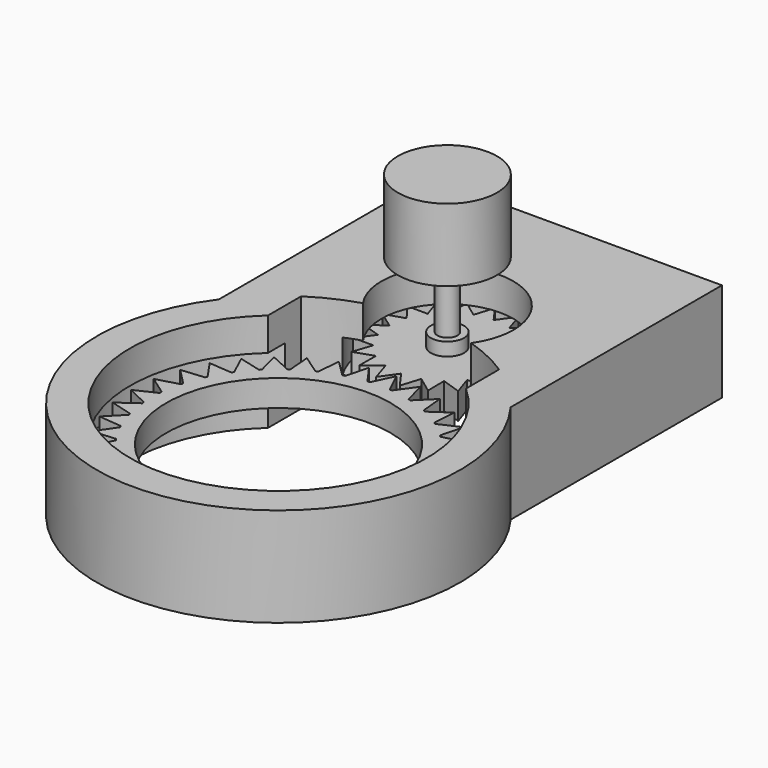
from build123d import *

# Parameters (mm, degrees)
F2_DEPTH  = 19.05
F0_W      = 6.35
F0_H      = 12.7
F4_R      = 43.18
F5_DEPTH  = 5.08
F7_DEPTH  = 5.08
F11_W     = 6.35
F11_H     = 12.7
F12_ANGLE = 220


with BuildPart() as f2:
    # F1 (on Top) → F2 (new body, symmetric)
    with BuildSketch(Plane.XY):
        with BuildLine():
            Line((-38.1, 42.5970949714), (-38.1, 58.5441073038))
            ThreePointArc((-38.1, 58.5441073038), (-47.8864663135, 50.8518322581), (-56.1521736461, 41.5446253421))
            ThreePointArc((-56.1521736461, 41.5446253421), (-0.0121527044, -69.8499989428), (56.1666263539, 41.5250837931))
            ThreePointArc((56.1666263539, 41.5250837931), (47.8953129372, 50.8435000629), (38.1, 58.5441073038))
            Line((38.1, 58.5441073038), (38.1, 42.5970949714))
            ThreePointArc((38.1, 42.5970949714), (0, -57.15), (-38.1, 42.5970949714))
        make_face()
        with BuildLine():
            ThreePointArc((-56.1521736461, 41.5446253421), (-47.8864663135, 50.8518322581), (-38.1, 58.5441073038))
            ThreePointArc((-38.1, 58.5441073038), (-29.7240525397, 63.2099928858), (-20.7880661565, 66.684921875))
            ThreePointArc((-20.7880661565, 66.684921875), (0, 106.68), (20.7880661565, 66.684921875))
            ThreePointArc((20.7880661565, 66.684921875), (29.7240525397, 63.2099928858), (38.1, 58.5441073038))
            ThreePointArc((38.1, 58.5441073038), (47.8953129372, 50.8435000629), (56.1666263539, 41.5250837931))
            Line((56.1666263539, 41.5250837931), (56.1666263539, 143.1446253421))
            Line((56.1666263539, 143.1446253421), (-56.1521736461, 143.1446253421))
            Line((-56.1521736461, 143.1446253421), (-56.1521736461, 82.5540921448))
            Line((-56.1521736461, 82.5540921448), (-56.1521736461, 80.0059078552))
            Line((-56.1521736461, 80.0059078552), (-56.1521736461, 41.5446253421))
        make_face()
        with BuildLine():
            ThreePointArc((-56.1521736461, 82.5540921448), (-56.1666263539, 81.28), (-56.1521736461, 80.0059078552))
            Line((-56.1521736461, 80.0059078552), (-56.1521736461, 82.5540921448))
        make_face()
    extrude(amount=F2_DEPTH, both=True)

    # F0 (on Front) → F3 (revolve, cut)
    with BuildSketch(Plane.XZ):
        with Locations((60.325, 0)):
            Rectangle(F0_W, F0_H)
    revolve(axis=Axis((0, 0, -13.0382813513), (0, 0, -1)), mode=Mode.SUBTRACT)

    # F11 (on offset) → F12 (revolve, cut)
    with BuildSketch(Plane.XZ.offset(-81.28)):
        with Locations((28.575, 0)):
            Rectangle(F11_W, F11_H)
    revolve(axis=Axis((0, 81.28, 35.56), (0, 0, 1)), revolution_arc=F12_ANGLE, mode=Mode.SUBTRACT)


with BuildPart() as f5:
    # F4 (on Top) → F5 (new body, symmetric)
    with BuildSketch(Plane.XY):
        with BuildLine():
            ThreePointArc((48.7456126291, -3.8191981379), (48.8576388833, -1.9110593268), (48.895, 0))
            ThreePointArc((48.895, 0), (48.8576388833, 1.9110593268), (48.7456126291, 3.8191981379))
            ThreePointArc((48.7456126291, 3.8191981379), (48.7089397632, 4.2614800416), (48.6682540392, 4.7034108658))
            ThreePointArc((48.6682540392, 4.7034108658), (48.1521750835, 8.490527647), (47.3418604457, 12.2257627388))
            ThreePointArc((47.3418604457, 12.2257627388), (47.2289432764, 12.6549572103), (47.1121351777, 13.0831091104))
            ThreePointArc((47.1121351777, 13.0831091104), (45.9462706933, 16.7230749079), (44.4996497887, 20.2608537254))
            ThreePointArc((44.4996497887, 20.2608537254), (44.3139192472, 20.6639199078), (44.1245379287, 21.0652837051))
            ThreePointArc((44.1245379287, 21.0652837051), (42.344312118, 24.4475), (40.3053397909, 27.680328924))
            ThreePointArc((40.3053397909, 27.680328924), (40.0524392055, 28.0450198554), (39.7962389229, 28.4074003139))
            ThreePointArc((39.7962389229, 28.4074003139), (37.4557430463, 31.4291001756), (34.886372439, 34.2587513352))
            ThreePointArc((34.886372439, 34.2587513352), (34.5739860661, 34.5739860661), (34.2587513352, 34.886372439))
            ThreePointArc((34.2587513352, 34.886372439), (31.4291001756, 37.4557430463), (28.4074003139, 39.7962389229))
            ThreePointArc((28.4074003139, 39.7962389229), (28.0450198554, 40.0524392055), (27.680328924, 40.3053397909))
            ThreePointArc((27.680328924, 40.3053397909), (24.4475, 42.344312118), (21.0652837051, 44.1245379287))
            ThreePointArc((21.0652837051, 44.1245379287), (20.6639199078, 44.3139192472), (20.2608537254, 44.4996497887))
            ThreePointArc((20.2608537254, 44.4996497887), (16.7230749079, 45.9462706933), (13.0831091104, 47.1121351777))
            ThreePointArc((13.0831091104, 47.1121351777), (12.6549572103, 47.2289432764), (12.2257627388, 47.3418604457))
            ThreePointArc((12.2257627388, 47.3418604457), (8.490527647, 48.1521750835), (4.7034108658, 48.6682540392))
            ThreePointArc((4.7034108658, 48.6682540392), (4.2614800416, 48.7089397632), (3.8191981379, 48.7456126291))
            ThreePointArc((3.8191981379, 48.7456126291), (0, 48.895), (-3.8191981379, 48.7456126291))
            ThreePointArc((-3.8191981379, 48.7456126291), (-4.2614800416, 48.7089397632), (-4.7034108658, 48.6682540392))
            ThreePointArc((-4.7034108658, 48.6682540392), (-8.490527647, 48.1521750835), (-12.2257627388, 47.3418604457))
            ThreePointArc((-12.2257627388, 47.3418604457), (-12.6549572103, 47.2289432764), (-13.0831091104, 47.1121351777))
            ThreePointArc((-13.0831091104, 47.1121351777), (-16.7230749079, 45.9462706933), (-20.2608537254, 44.4996497887))
            ThreePointArc((-20.2608537254, 44.4996497887), (-20.6639199078, 44.3139192472), (-21.0652837051, 44.1245379287))
            ThreePointArc((-21.0652837051, 44.1245379287), (-24.4475, 42.344312118), (-27.680328924, 40.3053397909))
            ThreePointArc((-27.680328924, 40.3053397909), (-28.0450198554, 40.0524392055), (-28.4074003139, 39.7962389229))
            ThreePointArc((-28.4074003139, 39.7962389229), (-31.4291001756, 37.4557430463), (-34.2587513352, 34.886372439))
            ThreePointArc((-34.2587513352, 34.886372439), (-34.5739860661, 34.5739860661), (-34.886372439, 34.2587513352))
            ThreePointArc((-34.886372439, 34.2587513352), (-37.4557430463, 31.4291001756), (-39.7962389229, 28.4074003139))
            ThreePointArc((-39.7962389229, 28.4074003139), (-40.0524392055, 28.0450198554), (-40.3053397909, 27.680328924))
            ThreePointArc((-40.3053397909, 27.680328924), (-42.344312118, 24.4475), (-44.1245379287, 21.0652837051))
            ThreePointArc((-44.1245379287, 21.0652837051), (-44.3139192472, 20.6639199078), (-44.4996497887, 20.2608537254))
            ThreePointArc((-44.4996497887, 20.2608537254), (-45.9462706933, 16.7230749079), (-47.1121351777, 13.0831091104))
            ThreePointArc((-47.1121351777, 13.0831091104), (-47.2289432764, 12.6549572103), (-47.3418604457, 12.2257627388))
            ThreePointArc((-47.3418604457, 12.2257627388), (-48.1521750835, 8.490527647), (-48.6682540392, 4.7034108658))
            ThreePointArc((-48.6682540392, 4.7034108658), (-48.7089397632, 4.2614800416), (-48.7456126291, 3.8191981379))
            ThreePointArc((-48.7456126291, 3.8191981379), (-48.895, 0), (-48.7456126291, -3.8191981379))
            ThreePointArc((-48.7456126291, -3.8191981379), (-48.7089397632, -4.2614800416), (-48.6682540392, -4.7034108658))
            ThreePointArc((-48.6682540392, -4.7034108658), (-48.1521750835, -8.490527647), (-47.3418604457, -12.2257627388))
            ThreePointArc((-47.3418604457, -12.2257627388), (-47.2289432764, -12.6549572103), (-47.1121351777, -13.0831091104))
            ThreePointArc((-47.1121351777, -13.0831091104), (-45.9462706933, -16.7230749079), (-44.4996497887, -20.2608537254))
            ThreePointArc((-44.4996497887, -20.2608537254), (-44.3139192472, -20.6639199078), (-44.1245379287, -21.0652837051))
            ThreePointArc((-44.1245379287, -21.0652837051), (-42.344312118, -24.4475), (-40.3053397909, -27.680328924))
            ThreePointArc((-40.3053397909, -27.680328924), (-40.0524392055, -28.0450198554), (-39.7962389229, -28.4074003139))
            ThreePointArc((-39.7962389229, -28.4074003139), (-37.4557430463, -31.4291001756), (-34.886372439, -34.2587513352))
            ThreePointArc((-34.886372439, -34.2587513352), (-34.5739860661, -34.5739860661), (-34.2587513352, -34.886372439))
            ThreePointArc((-34.2587513352, -34.886372439), (-31.4291001756, -37.4557430463), (-28.4074003139, -39.7962389229))
            ThreePointArc((-28.4074003139, -39.7962389229), (-28.0450198554, -40.0524392055), (-27.680328924, -40.3053397909))
            ThreePointArc((-27.680328924, -40.3053397909), (-24.4475, -42.344312118), (-21.0652837051, -44.1245379287))
            ThreePointArc((-21.0652837051, -44.1245379287), (-20.6639199078, -44.3139192472), (-20.2608537254, -44.4996497887))
            ThreePointArc((-20.2608537254, -44.4996497887), (-16.7230749079, -45.9462706933), (-13.0831091104, -47.1121351777))
            ThreePointArc((-13.0831091104, -47.1121351777), (-12.6549572103, -47.2289432764), (-12.2257627388, -47.3418604457))
            ThreePointArc((-12.2257627388, -47.3418604457), (-8.490527647, -48.1521750835), (-4.7034108658, -48.6682540392))
            ThreePointArc((-4.7034108658, -48.6682540392), (-4.2614800416, -48.7089397632), (-3.8191981379, -48.7456126291))
            ThreePointArc((-3.8191981379, -48.7456126291), (0, -48.895), (3.8191981379, -48.7456126291))
            ThreePointArc((3.8191981379, -48.7456126291), (4.2614800416, -48.7089397632), (4.7034108658, -48.6682540392))
            ThreePointArc((4.7034108658, -48.6682540392), (8.490527647, -48.1521750835), (12.2257627388, -47.3418604457))
            ThreePointArc((12.2257627388, -47.3418604457), (12.6549572103, -47.2289432764), (13.0831091104, -47.1121351777))
            ThreePointArc((13.0831091104, -47.1121351777), (16.7230749079, -45.9462706933), (20.2608537254, -44.4996497887))
            ThreePointArc((20.2608537254, -44.4996497887), (20.6639199078, -44.3139192472), (21.0652837051, -44.1245379287))
            ThreePointArc((21.0652837051, -44.1245379287), (24.4475, -42.344312118), (27.680328924, -40.3053397909))
            ThreePointArc((27.680328924, -40.3053397909), (28.0450198554, -40.0524392055), (28.4074003139, -39.7962389229))
            ThreePointArc((28.4074003139, -39.7962389229), (31.4291001756, -37.4557430463), (34.2587513352, -34.886372439))
            ThreePointArc((34.2587513352, -34.886372439), (34.5739860661, -34.5739860661), (34.886372439, -34.2587513352))
            ThreePointArc((34.886372439, -34.2587513352), (37.4557430463, -31.4291001756), (39.7962389229, -28.4074003139))
            ThreePointArc((39.7962389229, -28.4074003139), (40.0524392055, -28.0450198554), (40.3053397909, -27.680328924))
            ThreePointArc((40.3053397909, -27.680328924), (42.344312118, -24.4475), (44.1245379287, -21.0652837051))
            ThreePointArc((44.1245379287, -21.0652837051), (44.3139192472, -20.6639199078), (44.4996497887, -20.2608537254))
            ThreePointArc((44.4996497887, -20.2608537254), (45.9462706933, -16.7230749079), (47.1121351777, -13.0831091104))
            ThreePointArc((47.1121351777, -13.0831091104), (47.2289432764, -12.6549572103), (47.3418604457, -12.2257627388))
            ThreePointArc((47.3418604457, -12.2257627388), (48.1521750835, -8.490527647), (48.6682540392, -4.7034108658))
            ThreePointArc((48.6682540392, -4.7034108658), (48.7089397632, -4.2614800416), (48.7456126291, -3.8191981379))
        make_face()
        Circle(F4_R, mode=Mode.SUBTRACT)
        with BuildLine():
            ThreePointArc((48.7456126291, 3.8191981379), (48.8576388833, 1.9110593268), (48.895, 0))
            ThreePointArc((48.895, 0), (48.8576388833, -1.9110593268), (48.7456126291, -3.8191981379))
            Line((48.7456126291, -3.8191981379), (56.7734283708, 0))
            Line((56.7734283708, 0), (48.7456126291, 3.8191981379))
        make_face()
        with BuildLine():
            ThreePointArc((47.3418604457, 12.2257627388), (48.1521750835, 8.490527647), (48.6682540392, 4.7034108658))
            Line((48.6682540392, 4.7034108658), (55.9109124247, 9.8586023765))
            Line((55.9109124247, 9.8586023765), (47.3418604457, 12.2257627388))
        make_face()
        with BuildLine():
            Line((55.9109124247, -9.8586023765), (48.6682540392, -4.7034108658))
            ThreePointArc((48.6682540392, -4.7034108658), (48.1521750835, -8.490527647), (47.3418604457, -12.2257627388))
            Line((47.3418604457, -12.2257627388), (55.9109124247, -9.8586023765))
        make_face()
        with BuildLine():
            ThreePointArc((44.4996497887, 20.2608537254), (45.9462706933, 16.7230749079), (47.1121351777, 13.0831091104))
            Line((47.1121351777, 13.0831091104), (53.3495716968, 19.4176561085))
            Line((53.3495716968, 19.4176561085), (44.4996497887, 20.2608537254))
        make_face()
        with BuildLine():
            Line((53.3495716968, -19.4176561085), (47.1121351777, -13.0831091104))
            ThreePointArc((47.1121351777, -13.0831091104), (45.9462706933, -16.7230749079), (44.4996497887, -20.2608537254))
            Line((44.4996497887, -20.2608537254), (53.3495716968, -19.4176561085))
        make_face()
        with BuildLine():
            ThreePointArc((40.3053397909, 27.680328924), (42.344312118, 24.4475), (44.1245379287, 21.0652837051))
            Line((44.1245379287, 21.0652837051), (49.1672312291, 28.3867141854))
            Line((49.1672312291, 28.3867141854), (40.3053397909, 27.680328924))
        make_face()
        with BuildLine():
            Line((49.1672312291, -28.3867141854), (44.1245379287, -21.0652837051))
            ThreePointArc((44.1245379287, -21.0652837051), (42.344312118, -24.4475), (40.3053397909, -27.680328924))
            Line((40.3053397909, -27.680328924), (49.1672312291, -28.3867141854))
        make_face()
        with BuildLine():
            ThreePointArc((34.886372439, 34.2587513352), (37.4557430463, 31.4291001756), (39.7962389229, 28.4074003139))
            Line((39.7962389229, 28.4074003139), (43.4909693203, 36.4932563162))
            Line((43.4909693203, 36.4932563162), (34.886372439, 34.2587513352))
        make_face()
        with BuildLine():
            Line((43.4909693203, -36.4932563162), (39.7962389229, -28.4074003139))
            ThreePointArc((39.7962389229, -28.4074003139), (37.4557430463, -31.4291001756), (34.886372439, -34.2587513352))
            Line((34.886372439, -34.2587513352), (43.4909693203, -36.4932563162))
        make_face()
        with BuildLine():
            ThreePointArc((28.4074003139, 39.7962389229), (31.4291001756, 37.4557430463), (34.2587513352, 34.886372439))
            Line((34.2587513352, 34.886372439), (36.4932563162, 43.4909693203))
            Line((36.4932563162, 43.4909693203), (28.4074003139, 39.7962389229))
        make_face()
        with BuildLine():
            Line((36.4932563162, -43.4909693203), (34.2587513352, -34.886372439))
            ThreePointArc((34.2587513352, -34.886372439), (31.4291001756, -37.4557430463), (28.4074003139, -39.7962389229))
            Line((28.4074003139, -39.7962389229), (36.4932563162, -43.4909693203))
        make_face()
        with BuildLine():
            ThreePointArc((21.0652837051, 44.1245379287), (24.4475, 42.344312118), (27.680328924, 40.3053397909))
            Line((27.680328924, 40.3053397909), (28.3867141854, 49.1672312291))
            Line((28.3867141854, 49.1672312291), (21.0652837051, 44.1245379287))
        make_face()
        with BuildLine():
            Line((28.3867141854, -49.1672312291), (27.680328924, -40.3053397909))
            ThreePointArc((27.680328924, -40.3053397909), (24.4475, -42.344312118), (21.0652837051, -44.1245379287))
            Line((21.0652837051, -44.1245379287), (28.3867141854, -49.1672312291))
        make_face()
        with BuildLine():
            ThreePointArc((13.0831091104, 47.1121351777), (16.7230749079, 45.9462706933), (20.2608537254, 44.4996497887))
            Line((20.2608537254, 44.4996497887), (19.4176561085, 53.3495716968))
            Line((19.4176561085, 53.3495716968), (13.0831091104, 47.1121351777))
        make_face()
        with BuildLine():
            Line((19.4176561085, -53.3495716968), (20.2608537254, -44.4996497887))
            ThreePointArc((20.2608537254, -44.4996497887), (16.7230749079, -45.9462706933), (13.0831091104, -47.1121351777))
            Line((13.0831091104, -47.1121351777), (19.4176561085, -53.3495716968))
        make_face()
        with BuildLine():
            ThreePointArc((4.7034108658, 48.6682540392), (8.490527647, 48.1521750835), (12.2257627388, 47.3418604457))
            Line((12.2257627388, 47.3418604457), (9.8586023765, 55.9109124247))
            Line((9.8586023765, 55.9109124247), (4.7034108658, 48.6682540392))
        make_face()
        with BuildLine():
            Line((9.8586023765, -55.9109124247), (12.2257627388, -47.3418604457))
            ThreePointArc((12.2257627388, -47.3418604457), (8.490527647, -48.1521750835), (4.7034108658, -48.6682540392))
            Line((4.7034108658, -48.6682540392), (9.8586023765, -55.9109124247))
        make_face()
        with BuildLine():
            ThreePointArc((-3.8191981379, 48.7456126291), (0, 48.895), (3.8191981379, 48.7456126291))
            Line((3.8191981379, 48.7456126291), (0, 56.7734283708))
            Line((0, 56.7734283708), (-3.8191981379, 48.7456126291))
        make_face()
        with BuildLine():
            Line((0, -56.7734283708), (3.8191981379, -48.7456126291))
            ThreePointArc((3.8191981379, -48.7456126291), (0, -48.895), (-3.8191981379, -48.7456126291))
            Line((-3.8191981379, -48.7456126291), (0, -56.7734283708))
        make_face()
        with BuildLine():
            ThreePointArc((-12.2257627388, 47.3418604457), (-8.490527647, 48.1521750835), (-4.7034108658, 48.6682540392))
            Line((-4.7034108658, 48.6682540392), (-9.8586023765, 55.9109124247))
            Line((-9.8586023765, 55.9109124247), (-12.2257627388, 47.3418604457))
        make_face()
        with BuildLine():
            Line((-9.8586023765, -55.9109124247), (-4.7034108658, -48.6682540392))
            ThreePointArc((-4.7034108658, -48.6682540392), (-8.490527647, -48.1521750835), (-12.2257627388, -47.3418604457))
            Line((-12.2257627388, -47.3418604457), (-9.8586023765, -55.9109124247))
        make_face()
        with BuildLine():
            ThreePointArc((-20.2608537254, 44.4996497887), (-16.7230749079, 45.9462706933), (-13.0831091104, 47.1121351777))
            Line((-13.0831091104, 47.1121351777), (-19.4176561085, 53.3495716968))
            Line((-19.4176561085, 53.3495716968), (-20.2608537254, 44.4996497887))
        make_face()
        with BuildLine():
            Line((-19.4176561085, -53.3495716968), (-13.0831091104, -47.1121351777))
            ThreePointArc((-13.0831091104, -47.1121351777), (-16.7230749079, -45.9462706933), (-20.2608537254, -44.4996497887))
            Line((-20.2608537254, -44.4996497887), (-19.4176561085, -53.3495716968))
        make_face()
        with BuildLine():
            ThreePointArc((-27.680328924, 40.3053397909), (-24.4475, 42.344312118), (-21.0652837051, 44.1245379287))
            Line((-21.0652837051, 44.1245379287), (-28.3867141854, 49.1672312291))
            Line((-28.3867141854, 49.1672312291), (-27.680328924, 40.3053397909))
        make_face()
        with BuildLine():
            Line((-28.3867141854, -49.1672312291), (-21.0652837051, -44.1245379287))
            ThreePointArc((-21.0652837051, -44.1245379287), (-24.4475, -42.344312118), (-27.680328924, -40.3053397909))
            Line((-27.680328924, -40.3053397909), (-28.3867141854, -49.1672312291))
        make_face()
        with BuildLine():
            ThreePointArc((-34.2587513352, 34.886372439), (-31.4291001756, 37.4557430463), (-28.4074003139, 39.7962389229))
            Line((-28.4074003139, 39.7962389229), (-36.4932563162, 43.4909693203))
            Line((-36.4932563162, 43.4909693203), (-34.2587513352, 34.886372439))
        make_face()
        with BuildLine():
            Line((-36.4932563162, -43.4909693203), (-28.4074003139, -39.7962389229))
            ThreePointArc((-28.4074003139, -39.7962389229), (-31.4291001756, -37.4557430463), (-34.2587513352, -34.886372439))
            Line((-34.2587513352, -34.886372439), (-36.4932563162, -43.4909693203))
        make_face()
        with BuildLine():
            ThreePointArc((-39.7962389229, 28.4074003139), (-37.4557430463, 31.4291001756), (-34.886372439, 34.2587513352))
            Line((-34.886372439, 34.2587513352), (-43.4909693203, 36.4932563162))
            Line((-43.4909693203, 36.4932563162), (-39.7962389229, 28.4074003139))
        make_face()
        with BuildLine():
            Line((-43.4909693203, -36.4932563162), (-34.886372439, -34.2587513352))
            ThreePointArc((-34.886372439, -34.2587513352), (-37.4557430463, -31.4291001756), (-39.7962389229, -28.4074003139))
            Line((-39.7962389229, -28.4074003139), (-43.4909693203, -36.4932563162))
        make_face()
        with BuildLine():
            ThreePointArc((-44.1245379287, 21.0652837051), (-42.344312118, 24.4475), (-40.3053397909, 27.680328924))
            Line((-40.3053397909, 27.680328924), (-49.1672312291, 28.3867141854))
            Line((-49.1672312291, 28.3867141854), (-44.1245379287, 21.0652837051))
        make_face()
        with BuildLine():
            Line((-49.1672312291, -28.3867141854), (-40.3053397909, -27.680328924))
            ThreePointArc((-40.3053397909, -27.680328924), (-42.344312118, -24.4475), (-44.1245379287, -21.0652837051))
            Line((-44.1245379287, -21.0652837051), (-49.1672312291, -28.3867141854))
        make_face()
        with BuildLine():
            ThreePointArc((-47.1121351777, 13.0831091104), (-45.9462706933, 16.7230749079), (-44.4996497887, 20.2608537254))
            Line((-44.4996497887, 20.2608537254), (-53.3495716968, 19.4176561085))
            Line((-53.3495716968, 19.4176561085), (-47.1121351777, 13.0831091104))
        make_face()
        with BuildLine():
            Line((-53.3495716968, -19.4176561085), (-44.4996497887, -20.2608537254))
            ThreePointArc((-44.4996497887, -20.2608537254), (-45.9462706933, -16.7230749079), (-47.1121351777, -13.0831091104))
            Line((-47.1121351777, -13.0831091104), (-53.3495716968, -19.4176561085))
        make_face()
        with BuildLine():
            ThreePointArc((-48.6682540392, 4.7034108658), (-48.1521750835, 8.490527647), (-47.3418604457, 12.2257627388))
            Line((-47.3418604457, 12.2257627388), (-55.9109124247, 9.8586023765))
            Line((-55.9109124247, 9.8586023765), (-48.6682540392, 4.7034108658))
        make_face()
        with BuildLine():
            Line((-55.9109124247, -9.8586023765), (-47.3418604457, -12.2257627388))
            ThreePointArc((-47.3418604457, -12.2257627388), (-48.1521750835, -8.490527647), (-48.6682540392, -4.7034108658))
            Line((-48.6682540392, -4.7034108658), (-55.9109124247, -9.8586023765))
        make_face()
        with BuildLine():
            ThreePointArc((-48.7456126291, -3.8191981379), (-48.895, 0), (-48.7456126291, 3.8191981379))
            Line((-48.7456126291, 3.8191981379), (-56.7734283708, 0))
            Line((-56.7734283708, 0), (-48.7456126291, -3.8191981379))
        make_face()
    extrude(amount=F5_DEPTH, both=True)


with BuildPart() as f7:
    # F6 (on Top) → F7 (new body, symmetric)
    with BuildSketch(Plane.XY):
        with BuildLine():
            Line((22.2700384266, 81.3121766297), (22.225, 81.28))
            ThreePointArc((22.225, 81.28), (21.9563738062, 77.8349638202), (21.1569888162, 74.4732056567))
            Line((21.1569888162, 74.4732056567), (21.1900082892, 74.4287814541))
            Line((21.1900082892, 74.4287814541), (28.6450190251, 76.7854906705))
            Line((28.6450190251, 76.7854906705), (22.2700384266, 81.3121766297))
        make_face()
        with BuildLine():
            ThreePointArc((22.2249072081, 81.3442229787), (22.224976802, 81.3121115229), (22.225, 81.28))
            Line((22.225, 81.28), (22.2700384266, 81.3121766297))
            Line((22.2700384266, 81.3121766297), (22.2249072081, 81.3442229787))
        make_face()
        with BuildLine():
            ThreePointArc((21.1372310747, 88.1479027), (21.9463271084, 84.7884685333), (22.2249072081, 81.3442229787))
            Line((22.2249072081, 81.3442229787), (22.2700384266, 81.3121766297))
            Line((22.2700384266, 81.3121766297), (28.6319117674, 85.8572652976))
            Line((28.6319117674, 85.8572652976), (21.1701220384, 88.1924221325))
            Line((21.1701220384, 88.1924221325), (21.1372310747, 88.1479027))
        make_face()
        with BuildLine():
            Line((21.1900082892, 74.4287814541), (21.1569888162, 74.4732056567))
            ThreePointArc((21.1569888162, 74.4732056567), (21.1471320183, 74.4426443417), (21.1372310747, 74.4120973))
            Line((21.1372310747, 74.4120973), (21.1900082892, 74.4287814541))
        make_face()
        with BuildLine():
            ThreePointArc((21.1172968325, 88.2089537081), (21.1272860058, 88.1784354045), (21.1372310747, 88.1479027))
            Line((21.1372310747, 88.1479027), (21.1701220384, 88.1924221325))
            Line((21.1701220384, 88.1924221325), (21.1172968325, 88.2089537081))
        make_face()
        with BuildLine():
            Line((21.1900082892, 74.4287814541), (21.1372310747, 74.4120973))
            ThreePointArc((21.1372310747, 74.4120973), (19.8171776568, 71.2186832513), (18.0180769495, 68.2684847907))
            Line((18.0180769495, 68.2684847907), (18.0357525009, 68.2160312851))
            Line((18.0357525009, 68.2160312851), (25.854152239, 68.1536699317))
            Line((25.854152239, 68.1536699317), (21.1900082892, 74.4287814541))
        make_face()
        with BuildLine():
            ThreePointArc((17.9804027, 94.3435272322), (19.7880210042, 91.3985399014), (21.1172968325, 88.2089537081))
            Line((21.1172968325, 88.2089537081), (21.1701220384, 88.1924221325))
            Line((21.1701220384, 88.1924221325), (25.8161134956, 94.4809853057))
            Line((25.8161134956, 94.4809853057), (17.9979266041, 94.3960315954))
            Line((17.9979266041, 94.3960315954), (17.9804027, 94.3435272322))
        make_face()
        with BuildLine():
            Line((18.0357525009, 68.2160312851), (18.0180769495, 68.2684847907))
            ThreePointArc((18.0180769495, 68.2684847907), (17.999258612, 68.2424651709), (17.9804027, 68.2164727678))
            Line((17.9804027, 68.2164727678), (18.0357525009, 68.2160312851))
        make_face()
        with BuildLine():
            ThreePointArc((17.94257831, 94.3954301717), (17.9615092529, 94.3694923645), (17.9804027, 94.3435272322))
            Line((17.9804027, 94.3435272322), (17.9979266041, 94.3960315954))
            Line((17.9979266041, 94.3960315954), (17.94257831, 94.3954301717))
        make_face()
        with BuildLine():
            Line((18.0357525009, 68.2160312851), (17.9804027, 68.2164727678))
            ThreePointArc((17.9804027, 68.2164727678), (15.738138084, 65.5872744672), (13.1154301717, 63.33742169))
            Line((13.1154301717, 63.33742169), (13.1160315954, 63.2820733959))
            Line((13.1160315954, 63.2820733959), (20.5325008954, 60.8067458365))
            Line((20.5325008954, 60.8067458365), (18.0357525009, 68.2160312851))
        make_face()
        with BuildLine():
            ThreePointArc((13.0635272322, 99.2604027), (15.6927255328, 97.018138084), (17.94257831, 94.3954301717))
            Line((17.94257831, 94.3954301717), (17.9979266041, 94.3960315954))
            Line((17.9979266041, 94.3960315954), (20.4732541635, 101.8125008954))
            Line((20.4732541635, 101.8125008954), (13.0639687149, 99.3157525009))
            Line((13.0639687149, 99.3157525009), (13.0635272322, 99.2604027))
        make_face()
        with BuildLine():
            Line((13.1160315954, 63.2820733959), (13.1154301717, 63.33742169))
            ThreePointArc((13.1154301717, 63.33742169), (13.0894923645, 63.3184907471), (13.0635272322, 63.2995973))
            Line((13.0635272322, 63.2995973), (13.1160315954, 63.2820733959))
        make_face()
        with BuildLine():
            ThreePointArc((13.0115152093, 99.2980769495), (13.0375348291, 99.279258612), (13.0635272322, 99.2604027))
            Line((13.0635272322, 99.2604027), (13.0639687149, 99.3157525009))
            Line((13.0639687149, 99.3157525009), (13.0115152093, 99.2980769495))
        make_face()
        with BuildLine():
            Line((13.1160315954, 63.2820733959), (13.0635272322, 63.2995973))
            ThreePointArc((13.0635272322, 63.2995973), (10.1185399014, 61.4919789958), (6.9289537081, 60.1627031675))
            Line((6.9289537081, 60.1627031675), (6.9124221325, 60.1098779616))
            Line((6.9124221325, 60.1098779616), (13.2009853057, 55.4638865044))
            Line((13.2009853057, 55.4638865044), (13.1160315954, 63.2820733959))
        make_face()
        with BuildLine():
            ThreePointArc((6.8679027, 102.4172310747), (10.0613167487, 101.0971776568), (13.0115152093, 99.2980769495))
            Line((13.0115152093, 99.2980769495), (13.0639687149, 99.3157525009))
            Line((13.0639687149, 99.3157525009), (13.1263300683, 107.134152239))
            Line((13.1263300683, 107.134152239), (6.8512185459, 102.4700082892))
            Line((6.8512185459, 102.4700082892), (6.8679027, 102.4172310747))
        make_face()
        with BuildLine():
            Line((6.9124221325, 60.1098779616), (6.9289537081, 60.1627031675))
            ThreePointArc((6.9289537081, 60.1627031675), (6.8984354045, 60.1527139942), (6.8679027, 60.1427689253))
            Line((6.8679027, 60.1427689253), (6.9124221325, 60.1098779616))
        make_face()
        with BuildLine():
            ThreePointArc((6.8067943433, 102.4369888162), (6.8373556583, 102.4271320183), (6.8679027, 102.4172310747))
            Line((6.8679027, 102.4172310747), (6.8512185459, 102.4700082892))
            Line((6.8512185459, 102.4700082892), (6.8067943433, 102.4369888162))
        make_face()
        with BuildLine():
            Line((6.9124221325, 60.1098779616), (6.8679027, 60.1427689253))
            ThreePointArc((6.8679027, 60.1427689253), (3.5084685333, 59.3336728916), (0.0642229787, 59.0550927919))
            Line((0.0642229787, 59.0550927919), (0.0321766297, 59.0099615734))
            Line((0.0321766297, 59.0099615734), (4.5772652976, 52.6480882326))
            Line((4.5772652976, 52.6480882326), (6.9124221325, 60.1098779616))
        make_face()
        with BuildLine():
            ThreePointArc((0, 103.505), (3.4450361798, 103.2363738062), (6.8067943433, 102.4369888162))
            Line((6.8067943433, 102.4369888162), (6.8512185459, 102.4700082892))
            Line((6.8512185459, 102.4700082892), (4.4945093295, 109.9250190251))
            Line((4.4945093295, 109.9250190251), (-0.0321766297, 103.5500384266))
            Line((-0.0321766297, 103.5500384266), (0, 103.505))
        make_face()
        with BuildLine():
            Line((0.0321766297, 59.0099615734), (0.0642229787, 59.0550927919))
            ThreePointArc((0.0642229787, 59.0550927919), (0.0321115229, 59.055023198), (0, 59.055))
            Line((0, 59.055), (0.0321766297, 59.0099615734))
        make_face()
        with BuildLine():
            ThreePointArc((-0.0642229787, 103.5049072081), (-0.0321115229, 103.504976802), (0, 103.505))
            Line((0, 103.505), (-0.0321766297, 103.5500384266))
            Line((-0.0321766297, 103.5500384266), (-0.0642229787, 103.5049072081))
        make_face()
        with BuildLine():
            Line((0.0321766297, 59.0099615734), (0, 59.055))
            ThreePointArc((0, 59.055), (-3.4450361798, 59.3236261938), (-6.8067943433, 60.1230111838))
            Line((-6.8067943433, 60.1230111838), (-6.8512185459, 60.0899917108))
            Line((-6.8512185459, 60.0899917108), (-4.4945093295, 52.6349809749))
            Line((-4.4945093295, 52.6349809749), (0.0321766297, 59.0099615734))
        make_face()
        with BuildLine():
            ThreePointArc((-6.8679027, 102.4172310747), (-3.5084685333, 103.2263271084), (-0.0642229787, 103.5049072081))
            Line((-0.0642229787, 103.5049072081), (-0.0321766297, 103.5500384266))
            Line((-0.0321766297, 103.5500384266), (-4.5772652976, 109.9119117674))
            Line((-4.5772652976, 109.9119117674), (-6.9124221325, 102.4501220384))
            Line((-6.9124221325, 102.4501220384), (-6.8679027, 102.4172310747))
        make_face()
        with BuildLine():
            Line((-6.8512185459, 60.0899917108), (-6.8067943433, 60.1230111838))
            ThreePointArc((-6.8067943433, 60.1230111838), (-6.8373556583, 60.1328679817), (-6.8679027, 60.1427689253))
            Line((-6.8679027, 60.1427689253), (-6.8512185459, 60.0899917108))
        make_face()
        with BuildLine():
            ThreePointArc((-6.9289537081, 102.3972968325), (-6.8984354045, 102.4072860058), (-6.8679027, 102.4172310747))
            Line((-6.8679027, 102.4172310747), (-6.9124221325, 102.4501220384))
            Line((-6.9124221325, 102.4501220384), (-6.9289537081, 102.3972968325))
        make_face()
        with BuildLine():
            Line((-6.8512185459, 60.0899917108), (-6.8679027, 60.1427689253))
            ThreePointArc((-6.8679027, 60.1427689253), (-10.0613167487, 61.4628223432), (-13.0115152093, 63.2619230505))
            Line((-13.0115152093, 63.2619230505), (-13.0639687149, 63.2442474991))
            Line((-13.0639687149, 63.2442474991), (-13.1263300683, 55.425847761))
            Line((-13.1263300683, 55.425847761), (-6.8512185459, 60.0899917108))
        make_face()
        with BuildLine():
            ThreePointArc((-13.0635272322, 99.2604027), (-10.1185399014, 101.0680210042), (-6.9289537081, 102.3972968325))
            Line((-6.9289537081, 102.3972968325), (-6.9124221325, 102.4501220384))
            Line((-6.9124221325, 102.4501220384), (-13.2009853057, 107.0961134956))
            Line((-13.2009853057, 107.0961134956), (-13.1160315954, 99.2779266041))
            Line((-13.1160315954, 99.2779266041), (-13.0635272322, 99.2604027))
        make_face()
        with BuildLine():
            Line((-13.0639687149, 63.2442474991), (-13.0115152093, 63.2619230505))
            ThreePointArc((-13.0115152093, 63.2619230505), (-13.0375348291, 63.280741388), (-13.0635272322, 63.2995973))
            Line((-13.0635272322, 63.2995973), (-13.0639687149, 63.2442474991))
        make_face()
        with BuildLine():
            ThreePointArc((-13.1154301717, 99.22257831), (-13.0894923645, 99.2415092529), (-13.0635272322, 99.2604027))
            Line((-13.0635272322, 99.2604027), (-13.1160315954, 99.2779266041))
            Line((-13.1160315954, 99.2779266041), (-13.1154301717, 99.22257831))
        make_face()
        with BuildLine():
            Line((-13.0639687149, 63.2442474991), (-13.0635272322, 63.2995973))
            ThreePointArc((-13.0635272322, 63.2995973), (-15.6927255328, 65.541861916), (-17.94257831, 68.1645698283))
            Line((-17.94257831, 68.1645698283), (-17.9979266041, 68.1639684046))
            Line((-17.9979266041, 68.1639684046), (-20.4732541635, 60.7474991046))
            Line((-20.4732541635, 60.7474991046), (-13.0639687149, 63.2442474991))
        make_face()
        with BuildLine():
            ThreePointArc((-17.9804027, 94.3435272322), (-15.738138084, 96.9727255328), (-13.1154301717, 99.22257831))
            Line((-13.1154301717, 99.22257831), (-13.1160315954, 99.2779266041))
            Line((-13.1160315954, 99.2779266041), (-20.5325008954, 101.7532541635))
            Line((-20.5325008954, 101.7532541635), (-18.0357525009, 94.3439687149))
            Line((-18.0357525009, 94.3439687149), (-17.9804027, 94.3435272322))
        make_face()
        with BuildLine():
            Line((-17.9979266041, 68.1639684046), (-17.94257831, 68.1645698283))
            ThreePointArc((-17.94257831, 68.1645698283), (-17.9615092529, 68.1905076355), (-17.9804027, 68.2164727678))
            Line((-17.9804027, 68.2164727678), (-17.9979266041, 68.1639684046))
        make_face()
        with BuildLine():
            ThreePointArc((-18.0180769495, 94.2915152093), (-17.999258612, 94.3175348291), (-17.9804027, 94.3435272322))
            Line((-17.9804027, 94.3435272322), (-18.0357525009, 94.3439687149))
            Line((-18.0357525009, 94.3439687149), (-18.0180769495, 94.2915152093))
        make_face()
        with BuildLine():
            Line((-17.9979266041, 68.1639684046), (-17.9804027, 68.2164727678))
            ThreePointArc((-17.9804027, 68.2164727678), (-19.7880210042, 71.1614600986), (-21.1172968325, 74.3510462919))
            Line((-21.1172968325, 74.3510462919), (-21.1701220384, 74.3675778675))
            Line((-21.1701220384, 74.3675778675), (-25.8161134956, 68.0790146943))
            Line((-25.8161134956, 68.0790146943), (-17.9979266041, 68.1639684046))
        make_face()
        with BuildLine():
            ThreePointArc((-21.1372310747, 88.1479027), (-19.8171776568, 91.3413167487), (-18.0180769495, 94.2915152093))
            Line((-18.0180769495, 94.2915152093), (-18.0357525009, 94.3439687149))
            Line((-18.0357525009, 94.3439687149), (-25.854152239, 94.4063300683))
            Line((-25.854152239, 94.4063300683), (-21.1900082892, 88.1312185459))
            Line((-21.1900082892, 88.1312185459), (-21.1372310747, 88.1479027))
        make_face()
        with BuildLine():
            Line((-21.1701220384, 74.3675778675), (-21.1172968325, 74.3510462919))
            ThreePointArc((-21.1172968325, 74.3510462919), (-21.1272860058, 74.3815645955), (-21.1372310747, 74.4120973))
            Line((-21.1372310747, 74.4120973), (-21.1701220384, 74.3675778675))
        make_face()
        with BuildLine():
            ThreePointArc((-21.1569888162, 88.0867943433), (-21.1471320183, 88.1173556583), (-21.1372310747, 88.1479027))
            Line((-21.1372310747, 88.1479027), (-21.1900082892, 88.1312185459))
            Line((-21.1900082892, 88.1312185459), (-21.1569888162, 88.0867943433))
        make_face()
        with BuildLine():
            Line((-21.1701220384, 74.3675778675), (-21.1372310747, 74.4120973))
            ThreePointArc((-21.1372310747, 74.4120973), (-21.9463271084, 77.7715314667), (-22.2249072081, 81.2157770213))
            Line((-22.2249072081, 81.2157770213), (-22.2700384266, 81.2478233703))
            Line((-22.2700384266, 81.2478233703), (-28.6319117674, 76.7027347024))
            Line((-28.6319117674, 76.7027347024), (-21.1701220384, 74.3675778675))
        make_face()
        with BuildLine():
            ThreePointArc((-22.225, 81.28), (-21.9563738062, 84.7250361798), (-21.1569888162, 88.0867943433))
            Line((-21.1569888162, 88.0867943433), (-21.1900082892, 88.1312185459))
            Line((-21.1900082892, 88.1312185459), (-28.6450190251, 85.7745093295))
            Line((-28.6450190251, 85.7745093295), (-22.2700384266, 81.2478233703))
            Line((-22.2700384266, 81.2478233703), (-22.225, 81.28))
        make_face()
        with BuildLine():
            Line((-22.2700384266, 81.2478233703), (-22.2249072081, 81.2157770213))
            ThreePointArc((-22.2249072081, 81.2157770213), (-22.224976802, 81.2478884771), (-22.225, 81.28))
            Line((-22.225, 81.28), (-22.2700384266, 81.2478233703))
        make_face()
        with BuildLine():
            ThreePointArc((21.1569888162, 74.4732056567), (21.9563738062, 77.8349638202), (22.225, 81.28))
            ThreePointArc((22.225, 81.28), (22.224976802, 81.3121115229), (22.2249072081, 81.3442229787))
            ThreePointArc((22.2249072081, 81.3442229787), (21.9463271084, 84.7884685333), (21.1372310747, 88.1479027))
            ThreePointArc((21.1372310747, 88.1479027), (21.1272860058, 88.1784354045), (21.1172968325, 88.2089537081))
            ThreePointArc((21.1172968325, 88.2089537081), (19.7880210042, 91.3985399014), (17.9804027, 94.3435272322))
            ThreePointArc((17.9804027, 94.3435272322), (17.9615092529, 94.3694923645), (17.94257831, 94.3954301717))
            ThreePointArc((17.94257831, 94.3954301717), (15.6927255328, 97.018138084), (13.0635272322, 99.2604027))
            ThreePointArc((13.0635272322, 99.2604027), (13.0375348291, 99.279258612), (13.0115152093, 99.2980769495))
            ThreePointArc((13.0115152093, 99.2980769495), (10.0613167487, 101.0971776568), (6.8679027, 102.4172310747))
            ThreePointArc((6.8679027, 102.4172310747), (6.8373556583, 102.4271320183), (6.8067943433, 102.4369888162))
            ThreePointArc((6.8067943433, 102.4369888162), (3.4450361798, 103.2363738062), (0, 103.505))
            ThreePointArc((0, 103.505), (-0.0321115229, 103.504976802), (-0.0642229787, 103.5049072081))
            ThreePointArc((-0.0642229787, 103.5049072081), (-3.5084685333, 103.2263271084), (-6.8679027, 102.4172310747))
            ThreePointArc((-6.8679027, 102.4172310747), (-6.8984354045, 102.4072860058), (-6.9289537081, 102.3972968325))
            ThreePointArc((-6.9289537081, 102.3972968325), (-10.1185399014, 101.0680210042), (-13.0635272322, 99.2604027))
            ThreePointArc((-13.0635272322, 99.2604027), (-13.0894923645, 99.2415092529), (-13.1154301717, 99.22257831))
            ThreePointArc((-13.1154301717, 99.22257831), (-15.738138084, 96.9727255328), (-17.9804027, 94.3435272322))
            ThreePointArc((-17.9804027, 94.3435272322), (-17.999258612, 94.3175348291), (-18.0180769495, 94.2915152093))
            ThreePointArc((-18.0180769495, 94.2915152093), (-19.8171776568, 91.3413167487), (-21.1372310747, 88.1479027))
            ThreePointArc((-21.1372310747, 88.1479027), (-21.1471320183, 88.1173556583), (-21.1569888162, 88.0867943433))
            ThreePointArc((-21.1569888162, 88.0867943433), (-21.9563738062, 84.7250361798), (-22.225, 81.28))
            ThreePointArc((-22.225, 81.28), (-22.224976802, 81.2478884771), (-22.2249072081, 81.2157770213))
            ThreePointArc((-22.2249072081, 81.2157770213), (-21.9463271084, 77.7715314667), (-21.1372310747, 74.4120973))
            ThreePointArc((-21.1372310747, 74.4120973), (-21.1272860058, 74.3815645955), (-21.1172968325, 74.3510462919))
            ThreePointArc((-21.1172968325, 74.3510462919), (-19.7880210042, 71.1614600986), (-17.9804027, 68.2164727678))
            ThreePointArc((-17.9804027, 68.2164727678), (-17.9615092529, 68.1905076355), (-17.94257831, 68.1645698283))
            ThreePointArc((-17.94257831, 68.1645698283), (-15.6927255328, 65.541861916), (-13.0635272322, 63.2995973))
            ThreePointArc((-13.0635272322, 63.2995973), (-13.0375348291, 63.280741388), (-13.0115152093, 63.2619230505))
            ThreePointArc((-13.0115152093, 63.2619230505), (-10.0613167487, 61.4628223432), (-6.8679027, 60.1427689253))
            ThreePointArc((-6.8679027, 60.1427689253), (-6.8373556583, 60.1328679817), (-6.8067943433, 60.1230111838))
            ThreePointArc((-6.8067943433, 60.1230111838), (-3.4450361798, 59.3236261938), (0, 59.055))
            ThreePointArc((0, 59.055), (0.0321115229, 59.055023198), (0.0642229787, 59.0550927919))
            ThreePointArc((0.0642229787, 59.0550927919), (3.5084685333, 59.3336728916), (6.8679027, 60.1427689253))
            ThreePointArc((6.8679027, 60.1427689253), (6.8984354045, 60.1527139942), (6.9289537081, 60.1627031675))
            ThreePointArc((6.9289537081, 60.1627031675), (10.1185399014, 61.4919789958), (13.0635272322, 63.2995973))
            ThreePointArc((13.0635272322, 63.2995973), (13.0894923645, 63.3184907471), (13.1154301717, 63.33742169))
            ThreePointArc((13.1154301717, 63.33742169), (15.738138084, 65.5872744672), (17.9804027, 68.2164727678))
            ThreePointArc((17.9804027, 68.2164727678), (17.999258612, 68.2424651709), (18.0180769495, 68.2684847907))
            ThreePointArc((18.0180769495, 68.2684847907), (19.8171776568, 71.2186832513), (21.1372310747, 74.4120973))
            ThreePointArc((21.1372310747, 74.4120973), (21.1471320183, 74.4426443417), (21.1569888162, 74.4732056567))
        make_face()
    extrude(amount=F7_DEPTH, both=True)

    # F9 (on offset) → F10 (revolve)
    with BuildSketch(Plane.XZ.offset(-81.28)):
        Polygon((-6.3821766297, 0), (0, 0), (0, 63.5), (-19.0821766297, 63.5), (-19.0821766297, 35.56), (-3.8421766297, 35.56), (-3.8421766297, 10.16), (-6.3821766297, 10.16), align=None)
    revolve(axis=Axis((0, 81.28, 31.75), (0, 0, 1)))


solid = Compound([f2.part, f5.part, f7.part])
